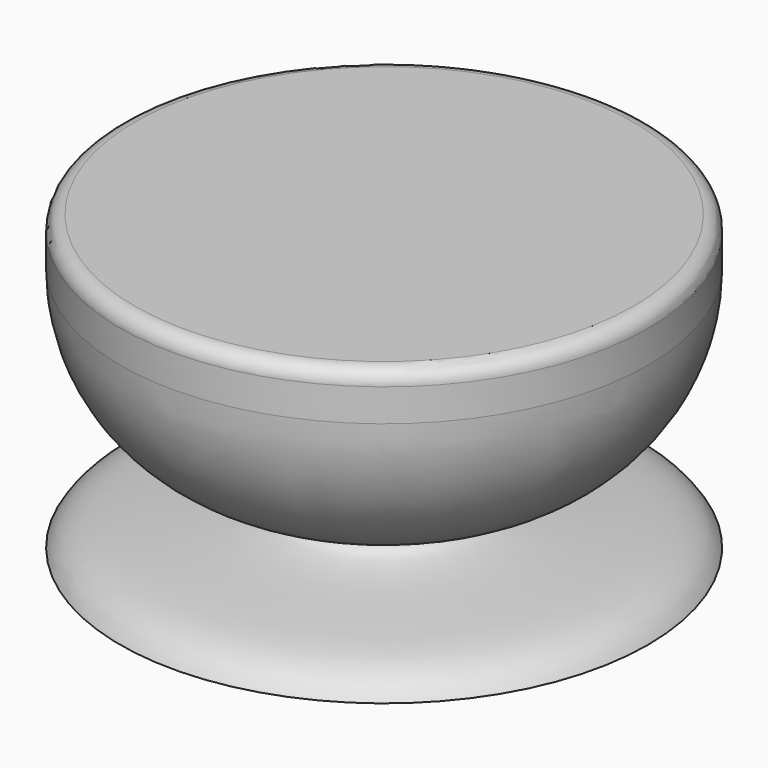
from build123d import *


with BuildPart() as f1:
    # F0 (on Front) → F1 (revolve)
    with BuildSketch(Plane.XZ):
        with BuildLine():
            Line((17, 20), (0, 20))
            Line((0, 20), (0, 0))
            Line((0, 0), (18, 0))
            add(Edge.make_bspline(
                [(6.7183714913, 4.7647017349), (6.1287002002, 3.902028574), (6.002418862, 2.0936899435), (16.1483580459, 2.1820709829), (17.5988337234, 0.6477711397), (18, 0)],
                knots=[0.0034272161, 0.0034272161, 0.0034272161, 0.0034272161, 0.2250102172, 0.7272681517, 1, 1, 1, 1], degree=3))
            ThreePointArc((6.7183714913, 4.7647017349), (6.7513509528, 4.7951164221), (6.7943087814, 4.808051763))
            ThreePointArc((6.7943087814, 4.808051763), (14.761612448, 8.5820911817), (18, 16.7817343026))
            Line((18, 16.7817343026), (18, 19))
            ThreePointArc((18, 19), (17.7071067812, 19.7071067812), (17, 20))
        make_face()
    revolve(axis=Axis((0, 0, 10), (0, 0, -1)))


solid = f1.part
